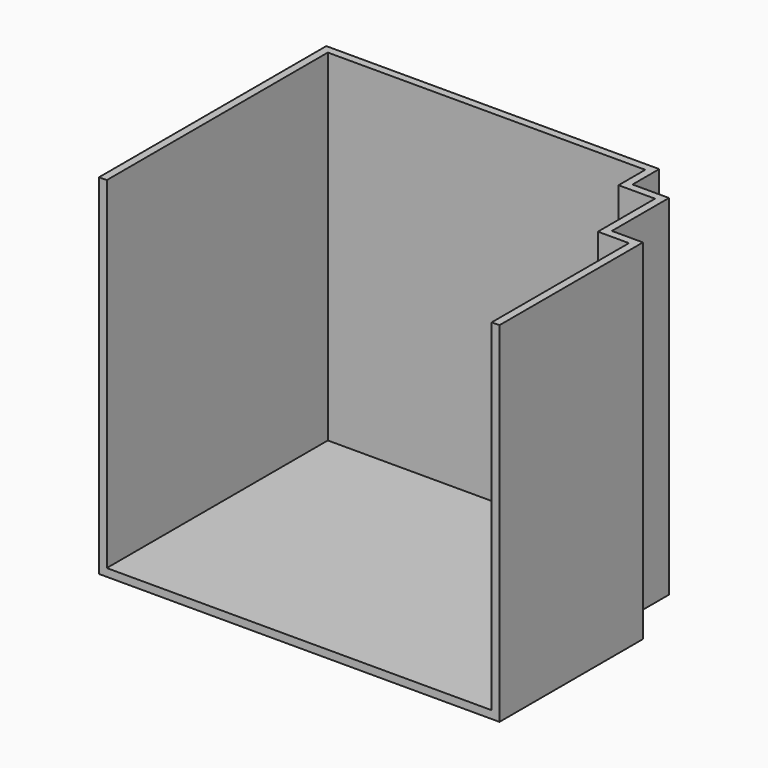
from build123d import *

# Parameters (mm, degrees)
F1_DEPTH = 2200
F3_DEPTH = 50


with BuildPart() as f1:
    # F0 (on Top) → F1 (new body)
    with BuildSketch(Plane.XY):
        Polygon((0, -1780), (0, 0), (2045, 0), (2045, -215), (2280, -215), (2280, -675), (2480, -675), (2480, -1780), (2530, -1780), (2530, -625), (2330, -625), (2330, -165), (2095, -165), (2095, 50), (-50, 50), (-50, -1780), align=None)
    extrude(amount=F1_DEPTH)

    # F2 (on face) → F3 (join)
    with BuildSketch(Plane(origin=(0, 0, 0), x_dir=(1, 0, 0), z_dir=(0, 0, -1))):
        Polygon((-50, 1780), (-50, -50), (2095, -50), (2095, 165), (2330, 165), (2330, 625), (2530, 625), (2530, 1780), align=None)
    extrude(amount=F3_DEPTH)


solid = f1.part
